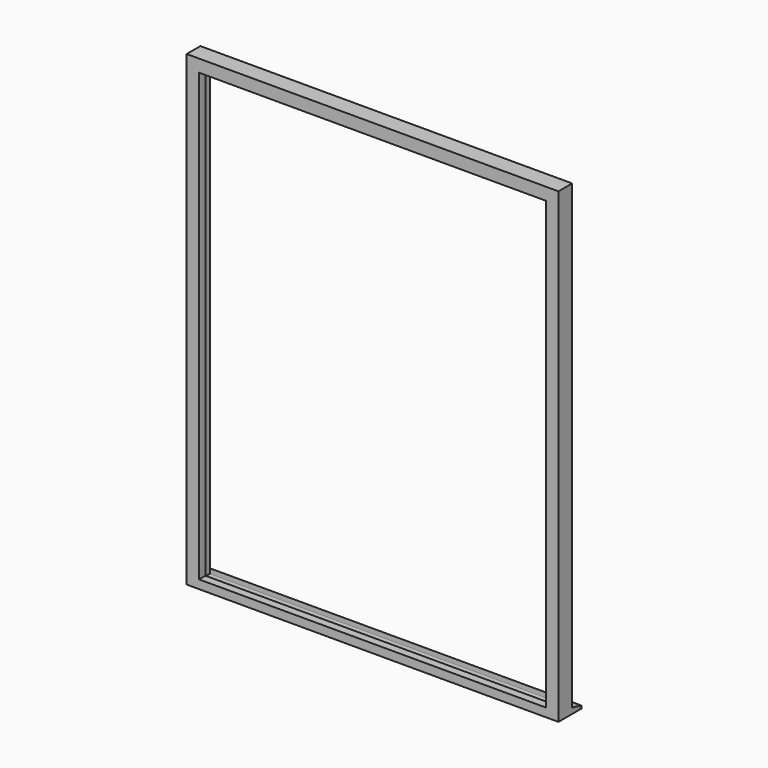
from build123d import *

# Parameters (mm, degrees)
F1_DEPTH = 1950
F3_DEPTH = 2450


with BuildPart() as f1:
    # F0 (on Right) → F1 (new body)
    with BuildSketch(Plane.YZ):
        with BuildLine():
            Line((150, 0), (150, 15))
            Line((150, 15), (90, 30))
            Line((90, 30), (42, 30))
            Line((42, 30), (36, 30))
            Line((36, 30), (36, 32.8440852463))
            Line((36, 32.8440852463), (42, 32.8440852463))
            Line((42, 32.8440852463), (42, 45))
            Line((42, 45), (0, 45))
            Line((0, 45), (0, 0))
            Line((0, 0), (139, 0))
            ThreePointArc((139, 0), (142, 3), (145, 0))
            Line((145, 0), (150, 0))
        make_face()
    extrude(amount=-F1_DEPTH)



with BuildPart() as f1b:
    # F0 (on Right) → F1, piece 2 (new body)
    with BuildSketch(Plane.YZ):
        Polygon((90, 2450), (0, 2450), (0, 2385), (42, 2385), (42, 2397.1269130707), (36, 2397.1269130707), (36, 2400), (42, 2400), (90, 2400), align=None)
    extrude(amount=-F1_DEPTH)


with BuildPart() as f1_1:
    add(f1.part)

    add(f1b.part)  # F3 merges F1b
    # F2 (on face) → F3 (join)
    with BuildSketch(Plane.XY.offset(2450)):
        Polygon((-1950, 90), (-1950, 0), (-1885, 0), (-1885, 42), (-1897.2488641739, 42), (-1897.2488641739, 36), (-1900, 36), (-1900, 42), (-1900, 90), align=None)
        Polygon((-65, 0), (0, 0), (0, 90), (-50, 90), (-50, 42), (-50, 36), (-52.7931936085, 36), (-52.7931936085, 42), (-65, 42), align=None)
    extrude(amount=-F3_DEPTH)


solid = f1_1.part
